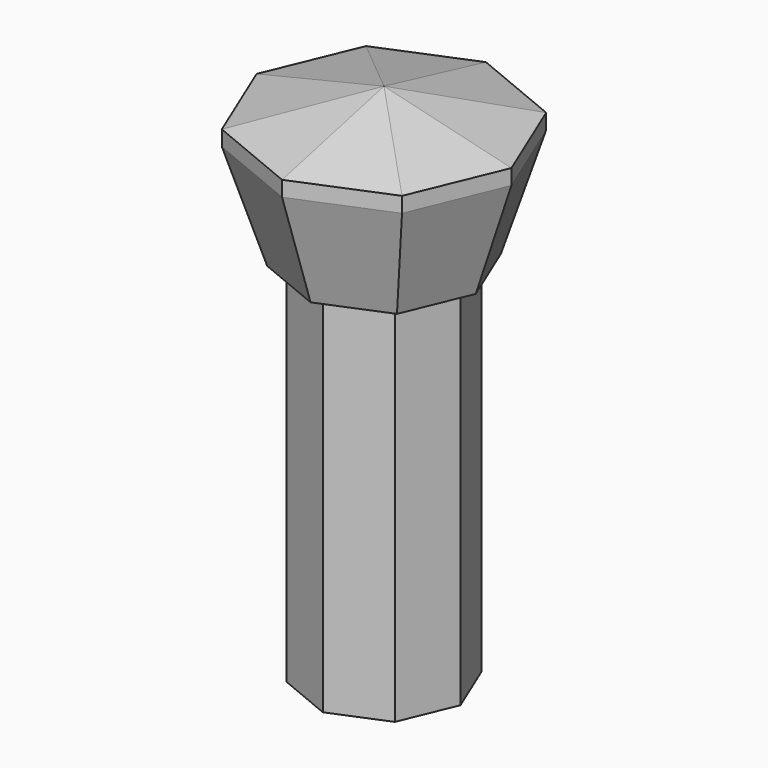
from build123d import *

# Parameters (mm, degrees)
F5_DEPTH = 120
F9_DEPTH = 5


with BuildPart() as f5:
    # F4 (on Top) → F5 (new body, through all)
    with BuildSketch(Plane.XY):
        Polygon((17.6776695297, 17.6776695297), (0, 25), (-17.6776695297, 17.6776695297), (-25, 0), (-17.6776695297, -17.6776695297), (0, -25), (17.6776695297, -17.6776695297), (25, 0), align=None)
    extrude(amount=F5_DEPTH)

    # F6 (on offset) → F8 section 0
    with BuildSketch(Plane.XY.offset(120)):
        Polygon((21.2132034356, 21.2132034356), (0, 30), (-21.2132034356, 21.2132034356), (-30, 0), (-21.2132034356, -21.2132034356), (0, -30), (21.2132034356, -21.2132034356), (30, 0), align=None)
    # F7 (on offset) → F8 section 1
    with BuildSketch(Plane.XY.offset(155)):
        Polygon((29.4525549142, 29.4525549142), (0, 41.6522026062), (-29.4525549142, 29.4525549142), (-41.6522026062, 0), (-29.4525549142, -29.4525549142), (0, -41.6522026062), (29.4525549142, -29.4525549142), (41.6522026062, 0), align=None)
    loft()

    # F9 (add, through all): a face of the model
    f9_faces = [f5.faces().sort_by_distance(p)[0] for p in [
        (0, 0, 155),
    ]]
    extrude(f9_faces, amount=F9_DEPTH)

    # F9_face (on face) → F11 section 0
    with BuildSketch(Plane.XY.offset(160), mode=Mode.PRIVATE) as f11_s0:
        Polygon((29.4525549142, -29.4525549142), (41.6522026062, 0), (29.4525549142, 29.4525549142), (0, 41.6522026062), (-29.4525549142, 29.4525549142), (-41.6522026062, 0), (-29.4525549142, -29.4525549142), (0, -41.6522026062), align=None)
    loft([f11_s0.sketch, Vertex(0, 0, 170)])


solid = f5.part
